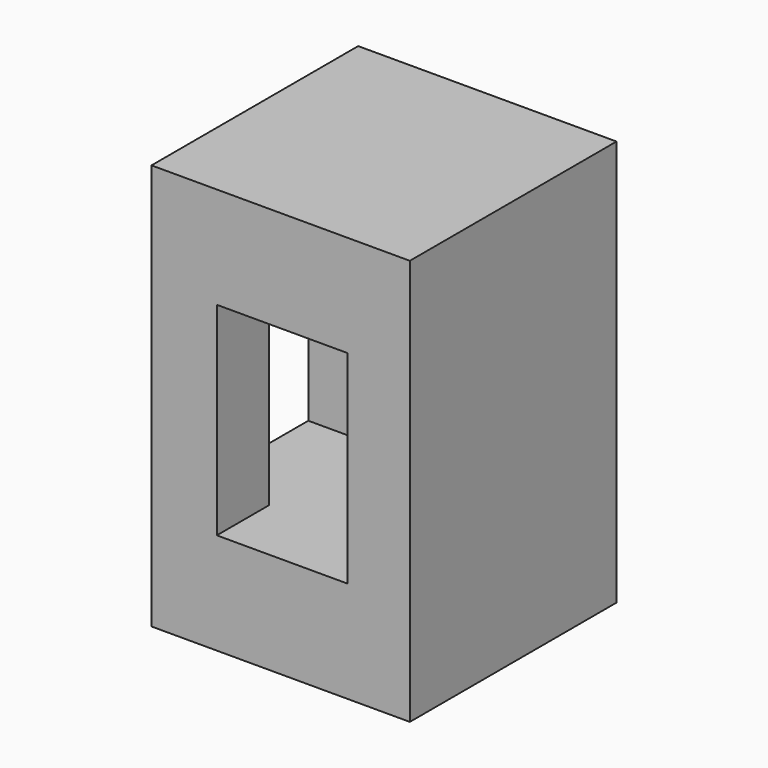
from build123d import *

# Parameters (mm, degrees)
F0_W     = 17.7
F0_H     = 17.7
F1_DEPTH = 55
F2_DEPTH = 27.5


with BuildPart() as f1:
    # F0 (on Top) → F1 (new body, symmetric)
    with BuildSketch(Plane.XY):
        Polygon((0, 17.7), (0, 0), (17.7, 0), (17.7, -35.4), (34.6, -35.4), (34.6, 34.6), (-35.4, 34.6), (-35.4, 17.7), align=None)
        Polygon((-35.4, -17.7), (-17.7, -17.7), (-17.7, 0), (0, 0), (0, 17.7), (-35.4, 17.7), align=None)
        with Locations((-8.85, -8.85)):
            Rectangle(F0_W, F0_H)
        Polygon((0, 0), (0, -17.7), (-17.7, -17.7), (-17.7, -35.4), (17.7, -35.4), (17.7, 0), align=None)
        with Locations((-26.55, -26.55)):
            Rectangle(F0_W, F0_H)
    extrude(amount=F1_DEPTH, both=True)

    # F0 (on Top) → F2 (cut, symmetric)
    with BuildSketch(Plane.XY):
        Polygon((-35.4, -17.7), (-17.7, -17.7), (-17.7, 0), (0, 0), (0, 17.7), (-35.4, 17.7), align=None)
        with Locations((-8.85, -8.85)):
            Rectangle(F0_W, F0_H)
        Polygon((0, 0), (0, -17.7), (-17.7, -17.7), (-17.7, -35.4), (17.7, -35.4), (17.7, 0), align=None)
    extrude(amount=F2_DEPTH, both=True, mode=Mode.SUBTRACT)


solid = f1.part
